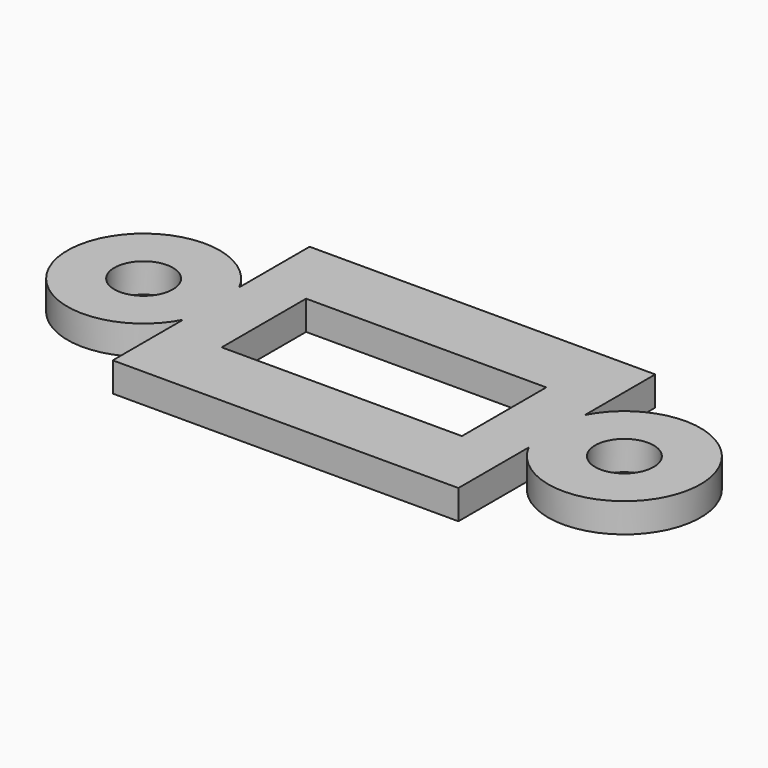
from build123d import *

# Parameters (mm, degrees)
SKETCH_R  = 2.5
SKETCH_W  = 20.5
SKETCH_H  = 9
PAD_DEPTH = 2.5


with BuildPart() as part:
    # Sketch → Pad (new body)
    with BuildSketch(Plane.XY):
        with BuildLine():
            Line((-14.75, 10.5), (14.75, 10.5))
            Line((14.75, 10.5), (14.75, 3))
            ThreePointArc((14.75, -3), (27.016281, 0), (14.75, 3))
            Line((14.75, -10.5), (14.75, -3))
            Line((14.75, -10.5), (-14.75, -10.5))
            Line((-14.75, -3), (-14.75, -10.5))
            ThreePointArc((-14.75, 3), (-27.016281, 0), (-14.75, -3))
            Line((-14.75, 10.5), (-14.75, 3))
        make_face()
        with Locations((-20.516281, 0)):
            Circle(SKETCH_R, mode=Mode.SUBTRACT)
        with Locations((20.516281, 0)):
            Circle(SKETCH_R, mode=Mode.SUBTRACT)
        Rectangle(SKETCH_W, SKETCH_H, mode=Mode.SUBTRACT)
    extrude(amount=PAD_DEPTH)


solid = part.part
